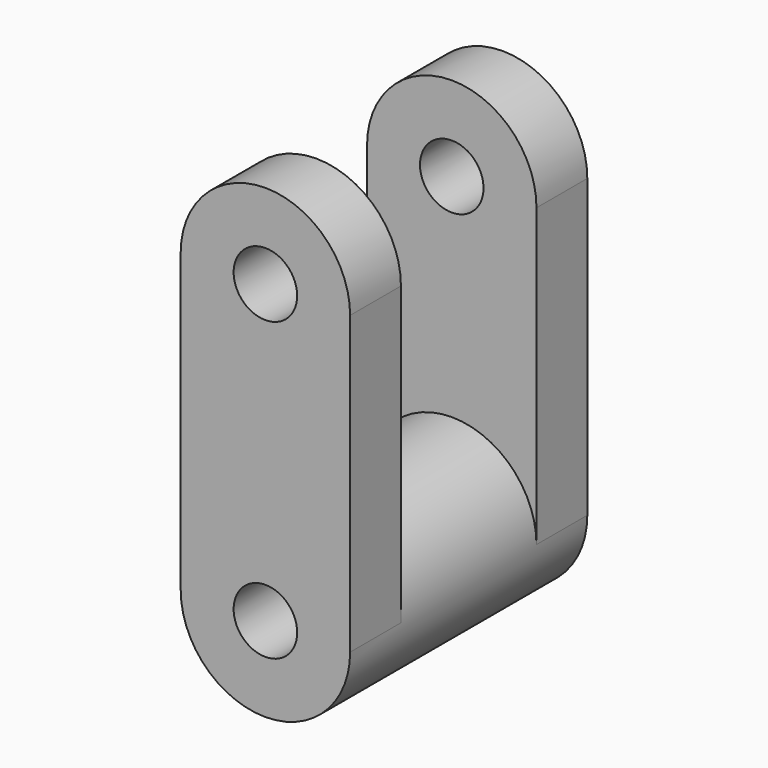
from build123d import *

# Parameters (mm, degrees)
F0_R     = 50.8
F0_R_2   = 19.05
F1_DEPTH = 177.8
F3_DEPTH = 38.1
F5_DEPTH = 38.1
F6_R     = 19.05
F7_DEPTH = 66.802
F8_R     = 19.05
F9_DEPTH = 106.68


with BuildPart() as f1:
    # F0 (on Front) → F1 (new body)
    with BuildSketch(Plane.XZ):
        Circle(F0_R)
        Circle(F0_R_2, mode=Mode.SUBTRACT)
    extrude(amount=F1_DEPTH)

    # F2 (on face) → F3 (join)
    with BuildSketch(Plane.XZ.offset(177.8)):
        with BuildLine():
            Line((-50.8, 177.8), (-50.8, 0))
            ThreePointArc((-50.8, 0), (0, 50.8), (50.8, 0))
            Line((50.8, 0), (50.8, 177.8))
            ThreePointArc((50.8, 177.8), (0, 228.6), (-50.8, 177.8))
        make_face()
    extrude(amount=-F3_DEPTH)

    # F4 (on face) → F5 (join)
    with BuildSketch(Plane(origin=(0, 0, 0), x_dir=(-1, 0, 0), z_dir=(0, 1, 0))):
        with BuildLine():
            Line((-50.8, 177.8), (-50.8, 0))
            ThreePointArc((-50.8, 0), (0, 50.8), (50.8, 0))
            Line((50.8, 0), (50.8, 177.8))
            ThreePointArc((50.8, 177.8), (0, 228.6), (-50.8, 177.8))
        make_face()
    extrude(amount=-F5_DEPTH)

    # F6 (on face) → F7 (cut)
    with BuildSketch(Plane.XZ.offset(177.8)):
        with Locations((0, 177.8)):
            Circle(F6_R)
    extrude(amount=-F7_DEPTH, mode=Mode.SUBTRACT)

    # F8 (on face) → F9 (cut)
    with BuildSketch(Plane(origin=(0, 0, 0), x_dir=(-1, 0, 0), z_dir=(0, 1, 0))):
        with Locations((0, 177.8)):
            Circle(F8_R)
    extrude(amount=-F9_DEPTH, mode=Mode.SUBTRACT)


solid = f1.part
